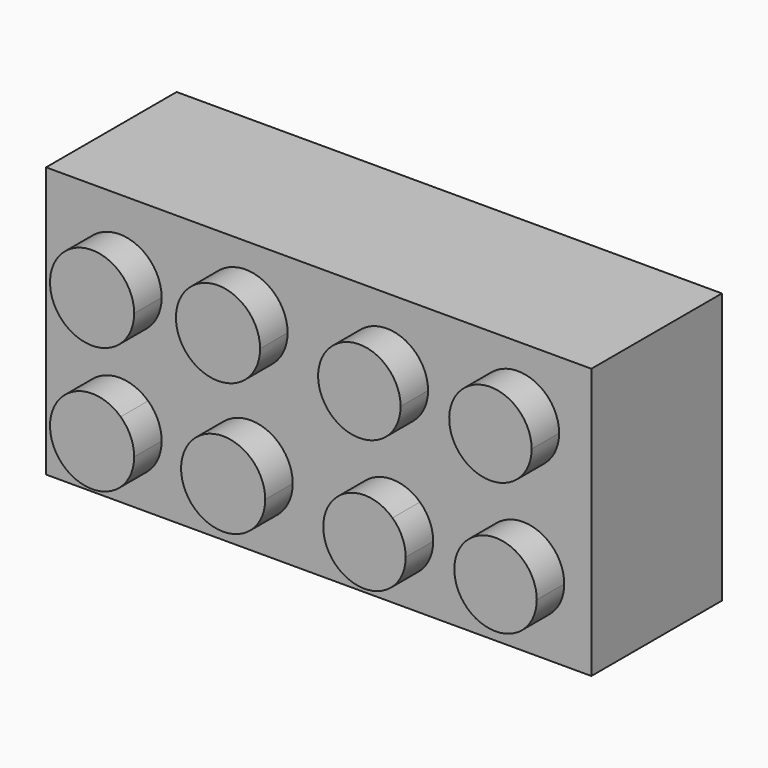
from build123d import *

# Parameters (mm, degrees)
F0_W     = 31.75
F0_H     = 15.75
F1_DEPTH = 9.5
F2_W     = 31
F2_H     = 15
F3_DEPTH = 8.5
F5_DEPTH = 2
F6_R     = 2.4
F7_DEPTH = 6.1


with BuildPart() as f1:
    # F0 (on Front) → F1 (new body)
    with BuildSketch(Plane.XZ):
        Rectangle(F0_W, F0_H)
    extrude(amount=F1_DEPTH)

    # F2 (on face) → F3 (cut)
    with BuildSketch(Plane(origin=(0, 0, 0), x_dir=(-1, 0, 0), z_dir=(0, 1, 0))):
        Rectangle(F2_W, F2_H)
    extrude(amount=-F3_DEPTH, mode=Mode.SUBTRACT)

    # F4 (on face) → F5 (join)
    with BuildSketch(Plane.XZ.offset(9.5)):
        with BuildLine():
            ThreePointArc((-1.515, -3.665893), (-3.071941, -1.384458), (-5.763935, -2.002664))
            ThreePointArc((-5.763935, -2.002664), (-4.858059, -5.947328), (-1.515, -3.665893))
        make_face()
        with BuildLine():
            ThreePointArc((-9.145893, -3.965), (-9.351187, -2.98327), (-9.932664, -2.166065))
            ThreePointArc((-9.932664, -2.166065), (-13.8406, -4.94673), (-9.145893, -3.965))
        make_face()
        with BuildLine():
            ThreePointArc((-9.145893, 3.389351), (-13.877328, 4.28241), (-9.796958, 1.726121))
            ThreePointArc((-9.796958, 1.726121), (-9.314458, 2.496292), (-9.145893, 3.389351))
        make_face()
        with BuildLine():
            ThreePointArc((-1.814107, 3.965), (-5.245837, 6.209706), (-5.927336, 2.166065))
            ThreePointArc((-5.927336, 2.166065), (-3.282376, 1.720294), (-1.814107, 3.965))
        make_face()
        with BuildLine():
            ThreePointArc((6.365, 3.665893), (1.730125, 4.540727), (5.727222, 2.036607))
            ThreePointArc((5.727222, 2.036607), (6.199875, 2.79106), (6.365, 3.665893))
        make_face()
        with BuildLine():
            ThreePointArc((13.995893, 3.965), (10.634199, 6.163896), (9.966607, 2.202778))
            ThreePointArc((9.966607, 2.202778), (12.557588, 1.766104), (13.995893, 3.965))
        make_face()
        with BuildLine():
            ThreePointArc((14.295, -3.665893), (12.769833, -1.431018), (10.132778, -2.036607))
            ThreePointArc((10.132778, -2.036607), (11.020167, -5.900769), (14.295, -3.665893))
        make_face()
        with BuildLine():
            ThreePointArc((6.664107, -3.965), (6.463002, -3.003305), (5.893393, -2.202778))
            ThreePointArc((5.893393, -2.202778), (2.065211, -4.926695), (6.664107, -3.965))
        make_face()
    extrude(amount=F5_DEPTH)

    # F6 (on face) → F7 (join)
    with BuildSketch(Plane(origin=(0, -8.5, 0), x_dir=(-1, 0, 0), z_dir=(0, 1, 0))):
        with BuildLine():
            ThreePointArc((0, -3.25), (2.298097, -2.298097), (3.25, 0))
            ThreePointArc((3.25, 0), (2.298097, 2.298097), (0, 3.25))
            ThreePointArc((0, 3.25), (-3.25, 0), (0, -3.25))
        make_face()
        Circle(F6_R, mode=Mode.SUBTRACT)
    extrude(amount=F7_DEPTH)


solid = f1.part
